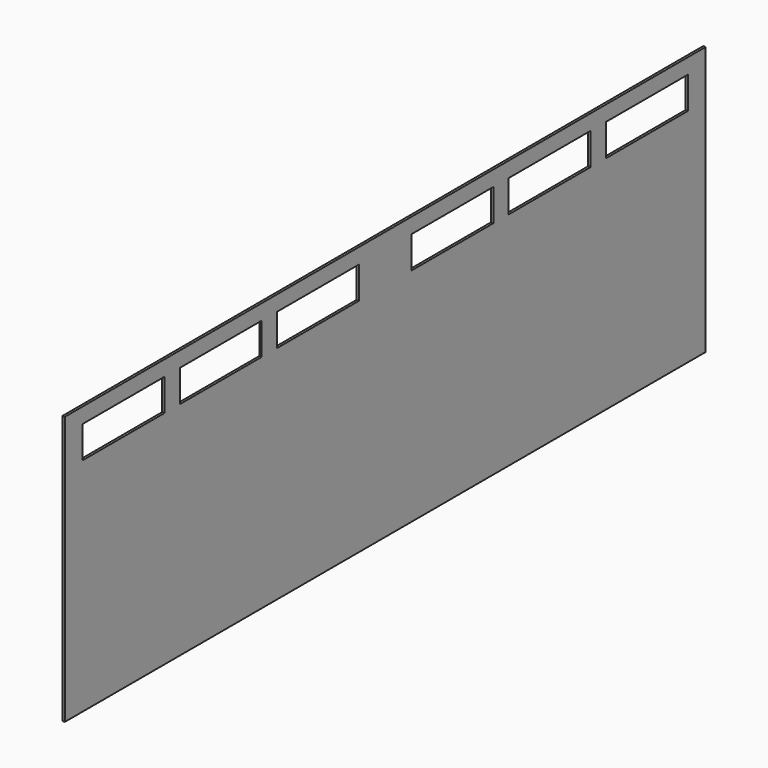
from build123d import *

# Parameters (mm, degrees)
F0_W     = 6262
F0_H     = 2100
F0_W_2   = 800
F0_H_2   = 250
F1_DEPTH = 19


with BuildPart() as f1:
    # F0 (on Right) → F1 (new body)
    with BuildSketch(Plane.YZ):
        with Locations((3131, 1050)):
            Rectangle(F0_W, F0_H)
        with Locations((574, 1855)):
            Rectangle(F0_W_2, F0_H_2, mode=Mode.SUBTRACT)
        with Locations((1524, 1855)):
            Rectangle(F0_W_2, F0_H_2, mode=Mode.SUBTRACT)
        with Locations((2474, 1855)):
            Rectangle(F0_W_2, F0_H_2, mode=Mode.SUBTRACT)
        with Locations((3788, 1855)):
            Rectangle(F0_W_2, F0_H_2, mode=Mode.SUBTRACT)
        with Locations((4738, 1855)):
            Rectangle(F0_W_2, F0_H_2, mode=Mode.SUBTRACT)
        with Locations((5688, 1855)):
            Rectangle(F0_W_2, F0_H_2, mode=Mode.SUBTRACT)
    extrude(amount=F1_DEPTH)


solid = f1.part
